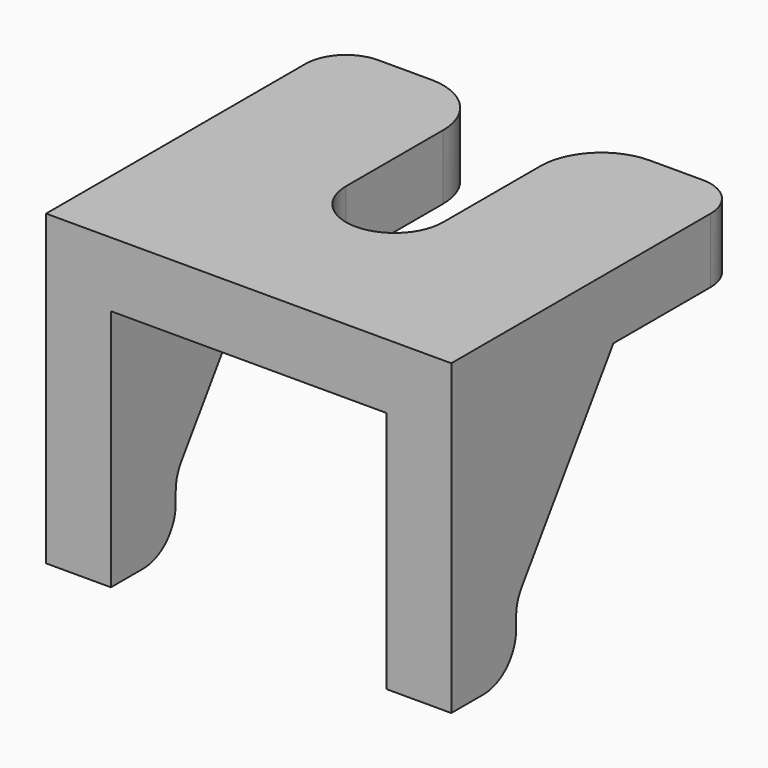
from build123d import *

# Parameters (mm, degrees)
PAD078_DEPTH            = 1.6
PAD079_DEPTH            = 1.6
LINEARPATTERN001_COUNT  = 2
LINEARPATTERN001_PITCH  = 8.4
FILLET004_R             = 1
FILLET005_R             = 1
FILLET006_R             = 1
FILLET007_R             = 1.5
BODY025_PLACEMENT_ANGLE = 90


with BuildPart() as part:
    # Sketch108 → Pad078 (new body)
    with BuildSketch(Plane.XY):
        with BuildLine():
            Line((-4.5, 5), (4.5, 5))
            Line((4.5, 5), (4.5, 1.2))
            Line((0, 1.2), (4.5, 1.2))
            ThreePointArc((0, 1.2), (-1.2, 0), (0, -1.2))
            Line((4.5, -1.2), (0, -1.2))
            Line((4.5, -1.2), (4.5, -5))
            Line((4.5, -5), (-4.5, -5))
            Line((-4.5, -5), (-4.5, 5))
        make_face()
    extrude(amount=PAD078_DEPTH)

    # Sketch109 (on DatumPlane) → Pad079 (join)
    with BuildSketch(Plane.XZ.offset(5)):
        Polygon((-4.5, 0), (-4.5, -6), (-2.5, -6), (-2.5, -4.4), (0.5, 0), align=None)
    pad079 = extrude(amount=-PAD079_DEPTH)

    # LinearPattern001: Pad079 ×2
    with Locations(*[(0, i * LINEARPATTERN001_PITCH, 0) for i in range(1, LINEARPATTERN001_COUNT)]):
        add(pad079)

    # Fillet004
    fillet004_edges = [part.edges().sort_by_distance(p)[0] for p in [
        (-2.5, -4.2, -6),
        (-2.5, 4.2, -6),
    ]]
    fillet(fillet004_edges, radius=FILLET004_R)

    # Fillet005
    fillet005_edges = [part.edges().sort_by_distance(p)[0] for p in [
        (-2.5, -4.2, -4.4),
        (-2.5, 4.2, -4.4),
    ]]
    fillet(fillet005_edges, radius=FILLET005_R)

    # Fillet006
    fillet006_edges = [part.edges().sort_by_distance(p)[0] for p in [
        (4.5, -5, 0.8),
        (4.5, 5, 0.8),
    ]]
    fillet(fillet006_edges, radius=FILLET006_R)

    # Fillet007
    fillet007_edges = [part.edges().sort_by_distance(p)[0] for p in [
        (4.5, -1.2, 0.8),
        (4.5, 1.2, 0.8),
    ]]
    fillet(fillet007_edges, radius=FILLET007_R)


with BuildPart() as part_1:
    # Body025 placement: moved
    add(part.part.moved(Location((22.4, 32.5, 16.4))).rotate(Axis((22.4, 32.5, 16.4), (0, 0, 1)), BODY025_PLACEMENT_ANGLE))


solid = part_1.part
